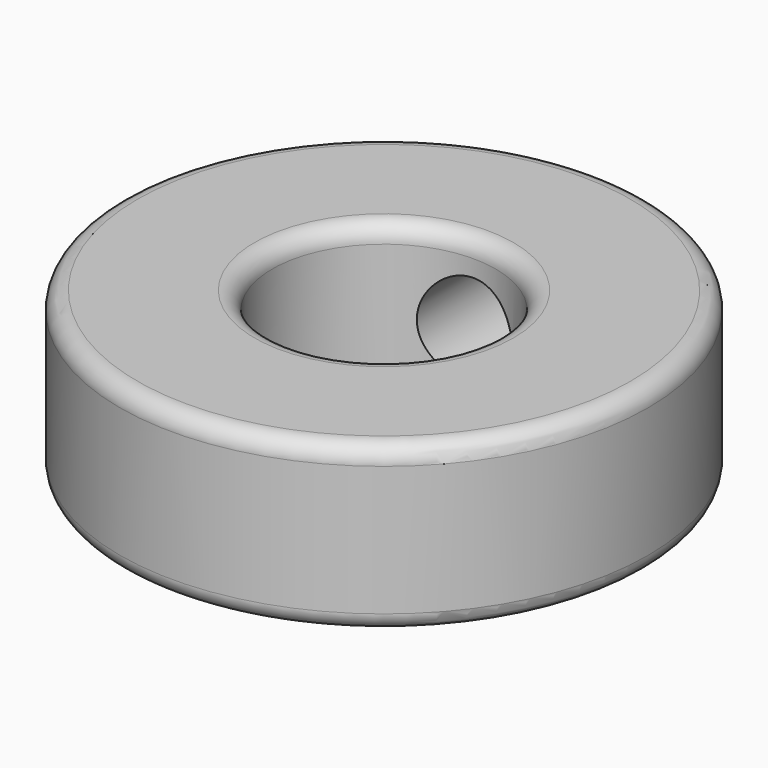
from build123d import *

# Parameters (mm, degrees)
F0_R     = 7.62
F0_R_2   = 3.2258
F1_DEPTH = 2.38125
F2_R     = 1.3843
F3_DEPTH = 7.62
F4_R     = 0.508


with BuildPart() as f1:
    # F0 (on Top) → F1 (new body, symmetric)
    with BuildSketch(Plane.XY):
        Circle(F0_R)
        Circle(F0_R_2, mode=Mode.SUBTRACT)
    extrude(amount=F1_DEPTH, both=True)

    # F2 (on Front) → F3 (cut)
    with BuildSketch(Plane.XZ):
        Circle(F2_R)
    extrude(amount=-F3_DEPTH, mode=Mode.SUBTRACT)

    # F4
    f4_edges = [f1.edges().sort_by_distance(p)[0] for p in [
        (-7.62, 0, 2.38125),
        (-7.62, 0, -2.38125),
        (-3.2258, 0, -2.38125),
        (-3.2258, 0, 2.38125),
    ]]
    fillet(f4_edges, radius=F4_R)


solid = f1.part
